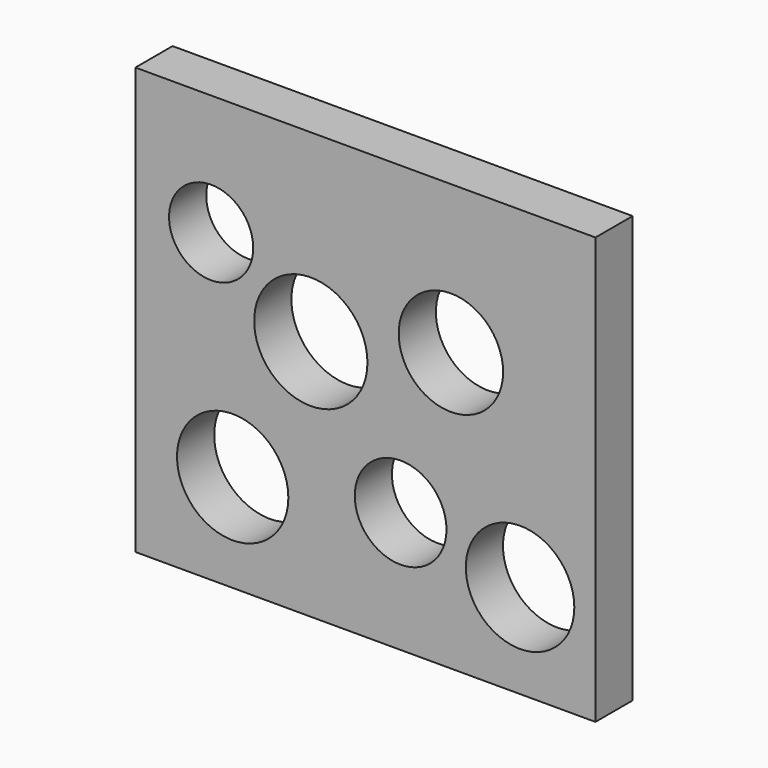
from build123d import *

# Parameters (mm, degrees)
F0_W     = 99.028289
F0_H     = 91.800831
F0_R     = 11.982241
F0_R_2   = 11.679004
F0_R_3   = 9.874074
F0_R_4   = 9.060957
F0_R_5   = 12.190942
F0_R_6   = 11.238741
F1_DEPTH = 10


with BuildPart() as f1:
    # F0 (on Front) → F1 (new body)
    with BuildSketch(Plane.XZ):
        with Locations((-49.514145, 45.900416)):
            Rectangle(F0_W, F0_H)
        with Locations((-78.086729, 20.998127)):
            Circle(F0_R, mode=Mode.SUBTRACT)
        with Locations((-16.226816, 20.224878)):
            Circle(F0_R_2, mode=Mode.SUBTRACT)
        with Locations((-41.937339, 26.024246)):
            Circle(F0_R_3, mode=Mode.SUBTRACT)
        with Locations((-82.726221, 65.846568)):
            Circle(F0_R_4, mode=Mode.SUBTRACT)
        with Locations((-61.268564, 52.121395)):
            Circle(F0_R_5, mode=Mode.SUBTRACT)
        with Locations((-31.111858, 59.853887)):
            Circle(F0_R_6, mode=Mode.SUBTRACT)
    extrude(amount=F1_DEPTH)


solid = f1.part
